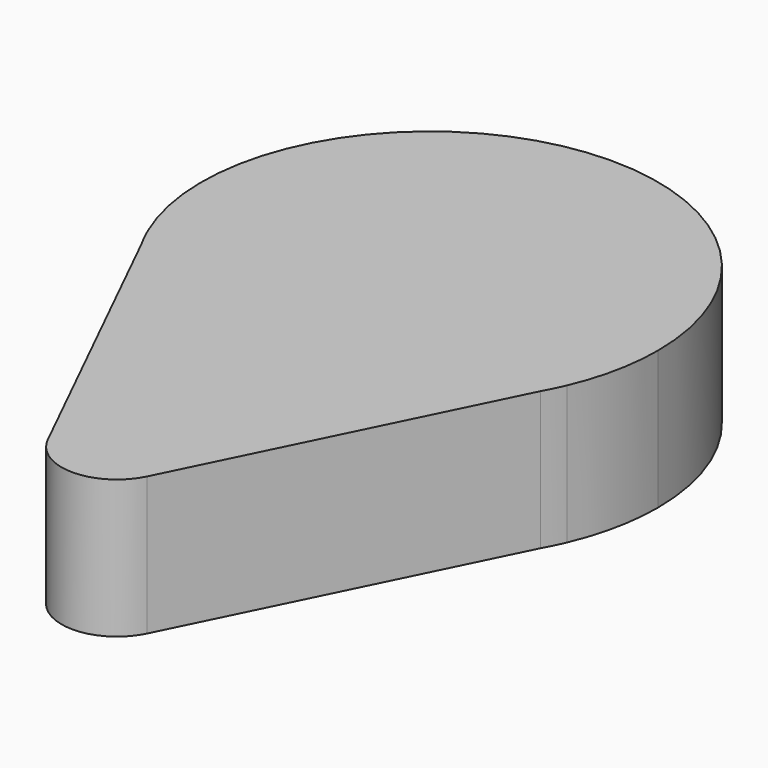
from build123d import *

# Parameters (mm, degrees)
F1_DEPTH = 10
F2_R     = 4


with BuildPart() as f1:
    # F0 (on Top) → F1 (new body)
    with BuildSketch(Plane.XY):
        with BuildLine():
            Line((-14.4176203235, -8.0238534513), (-15.1564685919, -6.5216148171))
            ThreePointArc((-15.1564685919, -6.5216148171), (-14.8061090102, -7.2821106815), (-14.4176203235, -8.0238534513))
        make_face()
        with BuildLine():
            ThreePointArc((14.4176203235, -8.0238534513), (0, -16.5), (-14.4176203235, -8.0238534513))
            Line((-14.4176203235, -8.0238534513), (0, -37.3379997909))
            Line((0, -37.3379997909), (14.4176203235, -8.0238534513))
        make_face()
        with BuildLine():
            ThreePointArc((14.4176203235, -8.0238534513), (14.8061090102, -7.2821106815), (15.1564685919, -6.5216148171))
            Line((15.1564685919, -6.5216148171), (14.4176203235, -8.0238534513))
        make_face()
        with BuildLine():
            ThreePointArc((15.1564685919, -6.5216148171), (16.1606270263, -3.329284325), (16.5, 0))
            ThreePointArc((16.5, 0), (-3.329284325, 16.1606270263), (-15.1564685919, -6.5216148171))
            Line((-15.1564685919, -6.5216148171), (-14.4176203235, -8.0238534513))
            ThreePointArc((-14.4176203235, -8.0238534513), (0, -16.5), (14.4176203235, -8.0238534513))
            Line((14.4176203235, -8.0238534513), (15.1564685919, -6.5216148171))
        make_face()
    extrude(amount=F1_DEPTH)

    # F2
    f2_edges = [f1.edges().sort_by_distance(p)[0] for p in [
        (0, -37.338, 5),
    ]]
    fillet(f2_edges, radius=F2_R)


solid = f1.part
